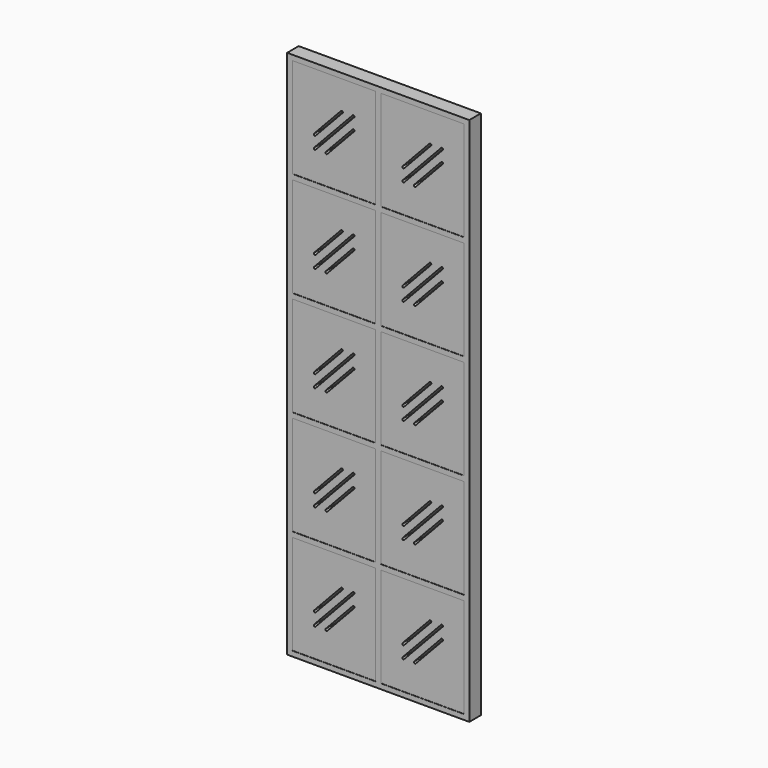
from build123d import *

# Parameters (mm, degrees)
F0_W          = 558.8
F0_H          = 1625.6
F0_W_2        = 255.5875
F0_H_2        = 306.07
F1_DEPTH      = 22.225
F1_DEPTH_BACK = 22.225
F2_W          = 255.5875
F2_H          = 306.07
F3_DEPTH      = 21.59
F3_DEPTH_BACK = 21.59


with BuildPart() as f1:
    # F0 (on Front) → F1 (new body, two sides)
    with BuildSketch(Plane.XZ) as f1_sk:
        with Locations((279.4, 812.8)):
            Rectangle(F0_W, F0_H)
        with Locations((143.66875, 168.91)):
            Rectangle(F0_W_2, F0_H_2, mode=Mode.SUBTRACT)
        with Locations((143.66875, 490.855)):
            Rectangle(F0_W_2, F0_H_2, mode=Mode.SUBTRACT)
        with Locations((143.66875, 812.8)):
            Rectangle(F0_W_2, F0_H_2, mode=Mode.SUBTRACT)
        with Locations((415.13125, 168.91)):
            Rectangle(F0_W_2, F0_H_2, mode=Mode.SUBTRACT)
        with Locations((415.13125, 490.855)):
            Rectangle(F0_W_2, F0_H_2, mode=Mode.SUBTRACT)
        with Locations((415.13125, 812.8)):
            Rectangle(F0_W_2, F0_H_2, mode=Mode.SUBTRACT)
        with Locations((143.66875, 1134.745)):
            Rectangle(F0_W_2, F0_H_2, mode=Mode.SUBTRACT)
        with Locations((143.66875, 1456.69)):
            Rectangle(F0_W_2, F0_H_2, mode=Mode.SUBTRACT)
        with Locations((415.13125, 1134.745)):
            Rectangle(F0_W_2, F0_H_2, mode=Mode.SUBTRACT)
        with Locations((415.13125, 1456.69)):
            Rectangle(F0_W_2, F0_H_2, mode=Mode.SUBTRACT)
    extrude(amount=F1_DEPTH)
    extrude(f1_sk.sketch, amount=-F1_DEPTH_BACK)

    # F2 (on Front) → F3 (join, two sides)
    with BuildSketch(Plane.XZ) as f3_sk:
        with Locations((143.66875, 1456.69)):
            Rectangle(F2_W, F2_H)
        with BuildLine():
            ThreePointArc((200.6253601771, 1521.9699346555), (205.1132846555, 1522.1105898229), (205.2539398229, 1517.6226653445))
            Line((205.2539398229, 1517.6226653445), (86.7121398229, 1391.4100653445))
            ThreePointArc((86.7121398229, 1391.4100653445), (82.2242153445, 1391.2694101771), (82.0835601771, 1395.7573346555))
            Line((82.0835601771, 1395.7573346555), (200.6253601771, 1521.9699346555))
        make_face(mode=Mode.SUBTRACT)
        with BuildLine():
            Line((82.0835601771, 1433.8573346555), (164.8409568767, 1521.9699346555))
            ThreePointArc((164.8409568767, 1521.9699346555), (169.3288813551, 1522.1105898229), (169.4695365224, 1517.6226653445))
            Line((169.4695365224, 1517.6226653445), (86.7121398229, 1429.5100653445))
            ThreePointArc((86.7121398229, 1429.5100653445), (82.2242153445, 1429.3694101771), (82.0835601771, 1433.8573346555))
        make_face(mode=Mode.SUBTRACT)
        with BuildLine():
            Line((117.8679634776, 1395.7573346555), (200.6253601771, 1483.8699346555))
            ThreePointArc((200.6253601771, 1483.8699346555), (205.1132846555, 1484.0105898229), (205.2539398229, 1479.5226653445))
            Line((205.2539398229, 1479.5226653445), (122.4965431233, 1391.4100653445))
            ThreePointArc((122.4965431233, 1391.4100653445), (118.0086186449, 1391.2694101771), (117.8679634776, 1395.7573346555))
        make_face(mode=Mode.SUBTRACT)
        with Locations((415.13125, 1456.69)):
            Rectangle(F2_W, F2_H)
        with BuildLine():
            Line((353.5460601771, 1433.8573346555), (436.3034568767, 1521.9699346555))
            ThreePointArc((436.3034568767, 1521.9699346555), (440.7913813551, 1522.1105898229), (440.9320365224, 1517.6226653445))
            Line((440.9320365224, 1517.6226653445), (358.1746398229, 1429.5100653445))
            ThreePointArc((358.1746398229, 1429.5100653445), (353.6867153445, 1429.3694101771), (353.5460601771, 1433.8573346555))
        make_face(mode=Mode.SUBTRACT)
        with BuildLine():
            ThreePointArc((472.0878601771, 1521.9699346555), (476.5757846555, 1522.1105898229), (476.7164398229, 1517.6226653445))
            Line((476.7164398229, 1517.6226653445), (358.1746398229, 1391.4100653445))
            ThreePointArc((358.1746398229, 1391.4100653445), (353.6867153445, 1391.2694101771), (353.5460601771, 1395.7573346555))
            Line((353.5460601771, 1395.7573346555), (472.0878601771, 1521.9699346555))
        make_face(mode=Mode.SUBTRACT)
        with BuildLine():
            Line((389.3304634776, 1395.7573346555), (472.0878601771, 1483.8699346555))
            ThreePointArc((472.0878601771, 1483.8699346555), (476.5757846555, 1484.0105898229), (476.7164398229, 1479.5226653445))
            Line((476.7164398229, 1479.5226653445), (393.9590431233, 1391.4100653445))
            ThreePointArc((393.9590431233, 1391.4100653445), (389.4711186449, 1391.2694101771), (389.3304634776, 1395.7573346555))
        make_face(mode=Mode.SUBTRACT)
        with Locations((415.13125, 1134.745)):
            Rectangle(F2_W, F2_H)
        with BuildLine():
            Line((353.5460601771, 1111.9123346555), (436.3034568767, 1200.0249346555))
            ThreePointArc((436.3034568767, 1200.0249346555), (440.7913813551, 1200.1655898229), (440.9320365224, 1195.6776653445))
            Line((440.9320365224, 1195.6776653445), (358.1746398229, 1107.5650653445))
            ThreePointArc((358.1746398229, 1107.5650653445), (353.6867153445, 1107.4244101771), (353.5460601771, 1111.9123346555))
        make_face(mode=Mode.SUBTRACT)
        with BuildLine():
            ThreePointArc((472.0878601771, 1200.0249346555), (476.5757846555, 1200.1655898229), (476.7164398229, 1195.6776653445))
            Line((476.7164398229, 1195.6776653445), (358.1746398229, 1069.4650653445))
            ThreePointArc((358.1746398229, 1069.4650653445), (353.6867153445, 1069.3244101771), (353.5460601771, 1073.8123346555))
            Line((353.5460601771, 1073.8123346555), (472.0878601771, 1200.0249346555))
        make_face(mode=Mode.SUBTRACT)
        with BuildLine():
            Line((389.3304634776, 1073.8123346555), (472.0878601771, 1161.9249346555))
            ThreePointArc((472.0878601771, 1161.9249346555), (476.5757846555, 1162.0655898229), (476.7164398229, 1157.5776653445))
            Line((476.7164398229, 1157.5776653445), (393.9590431233, 1069.4650653445))
            ThreePointArc((393.9590431233, 1069.4650653445), (389.4711186449, 1069.3244101771), (389.3304634776, 1073.8123346555))
        make_face(mode=Mode.SUBTRACT)
        with Locations((143.66875, 1134.745)):
            Rectangle(F2_W, F2_H)
        with BuildLine():
            Line((82.0835601771, 1111.9123346555), (164.8409568767, 1200.0249346555))
            ThreePointArc((164.8409568767, 1200.0249346555), (169.3288813551, 1200.1655898229), (169.4695365224, 1195.6776653445))
            Line((169.4695365224, 1195.6776653445), (86.7121398229, 1107.5650653445))
            ThreePointArc((86.7121398229, 1107.5650653445), (82.2242153445, 1107.4244101771), (82.0835601771, 1111.9123346555))
        make_face(mode=Mode.SUBTRACT)
        with BuildLine():
            ThreePointArc((200.6253601771, 1200.0249346555), (205.1132846555, 1200.1655898229), (205.2539398229, 1195.6776653445))
            Line((205.2539398229, 1195.6776653445), (86.7121398229, 1069.4650653445))
            ThreePointArc((86.7121398229, 1069.4650653445), (82.2242153445, 1069.3244101771), (82.0835601771, 1073.8123346555))
            Line((82.0835601771, 1073.8123346555), (200.6253601771, 1200.0249346555))
        make_face(mode=Mode.SUBTRACT)
        with BuildLine():
            Line((117.8679634776, 1073.8123346555), (200.6253601771, 1161.9249346555))
            ThreePointArc((200.6253601771, 1161.9249346555), (205.1132846555, 1162.0655898229), (205.2539398229, 1157.5776653445))
            Line((205.2539398229, 1157.5776653445), (122.4965431233, 1069.4650653445))
            ThreePointArc((122.4965431233, 1069.4650653445), (118.0086186449, 1069.3244101771), (117.8679634776, 1073.8123346555))
        make_face(mode=Mode.SUBTRACT)
        with Locations((143.66875, 812.8)):
            Rectangle(F2_W, F2_H)
        with BuildLine():
            Line((117.8679634776, 751.8673346555), (200.6253601771, 839.9799346555))
            ThreePointArc((200.6253601771, 839.9799346555), (205.1132846555, 840.1205898229), (205.2539398229, 835.6326653445))
            Line((205.2539398229, 835.6326653445), (122.4965431233, 747.5200653445))
            ThreePointArc((122.4965431233, 747.5200653445), (118.0086186449, 747.3794101771), (117.8679634776, 751.8673346555))
        make_face(mode=Mode.SUBTRACT)
        with BuildLine():
            Line((82.0835601771, 789.9673346555), (164.8409568767, 878.0799346555))
            ThreePointArc((164.8409568767, 878.0799346555), (169.3288813551, 878.2205898229), (169.4695365224, 873.7326653445))
            Line((169.4695365224, 873.7326653445), (86.7121398229, 785.6200653445))
            ThreePointArc((86.7121398229, 785.6200653445), (82.2242153445, 785.4794101771), (82.0835601771, 789.9673346555))
        make_face(mode=Mode.SUBTRACT)
        with BuildLine():
            ThreePointArc((200.6253601771, 878.0799346555), (205.1132846555, 878.2205898229), (205.2539398229, 873.7326653445))
            Line((205.2539398229, 873.7326653445), (86.7121398229, 747.5200653445))
            ThreePointArc((86.7121398229, 747.5200653445), (82.2242153445, 747.3794101771), (82.0835601771, 751.8673346555))
            Line((82.0835601771, 751.8673346555), (200.6253601771, 878.0799346555))
        make_face(mode=Mode.SUBTRACT)
        with Locations((415.13125, 812.8)):
            Rectangle(F2_W, F2_H)
        with BuildLine():
            Line((389.3304634776, 751.8673346555), (472.0878601771, 839.9799346555))
            ThreePointArc((472.0878601771, 839.9799346555), (476.5757846555, 840.1205898229), (476.7164398229, 835.6326653445))
            Line((476.7164398229, 835.6326653445), (393.9590431233, 747.5200653445))
            ThreePointArc((393.9590431233, 747.5200653445), (389.4711186449, 747.3794101771), (389.3304634776, 751.8673346555))
        make_face(mode=Mode.SUBTRACT)
        with BuildLine():
            Line((353.5460601771, 789.9673346555), (436.3034568767, 878.0799346555))
            ThreePointArc((436.3034568767, 878.0799346555), (440.7913813551, 878.2205898229), (440.9320365224, 873.7326653445))
            Line((440.9320365224, 873.7326653445), (358.1746398229, 785.6200653445))
            ThreePointArc((358.1746398229, 785.6200653445), (353.6867153445, 785.4794101771), (353.5460601771, 789.9673346555))
        make_face(mode=Mode.SUBTRACT)
        with BuildLine():
            ThreePointArc((472.0878601771, 878.0799346555), (476.5757846555, 878.2205898229), (476.7164398229, 873.7326653445))
            Line((476.7164398229, 873.7326653445), (358.1746398229, 747.5200653445))
            ThreePointArc((358.1746398229, 747.5200653445), (353.6867153445, 747.3794101771), (353.5460601771, 751.8673346555))
            Line((353.5460601771, 751.8673346555), (472.0878601771, 878.0799346555))
        make_face(mode=Mode.SUBTRACT)
        with Locations((415.13125, 490.855)):
            Rectangle(F2_W, F2_H)
        with BuildLine():
            Line((353.5460601771, 468.0223346555), (436.3034568767, 556.1349346555))
            ThreePointArc((436.3034568767, 556.1349346555), (440.7913813551, 556.2755898229), (440.9320365224, 551.7876653445))
            Line((440.9320365224, 551.7876653445), (358.1746398229, 463.6750653445))
            ThreePointArc((358.1746398229, 463.6750653445), (353.6867153445, 463.5344101771), (353.5460601771, 468.0223346555))
        make_face(mode=Mode.SUBTRACT)
        with BuildLine():
            ThreePointArc((472.0878601771, 556.1349346555), (476.5757846555, 556.2755898229), (476.7164398229, 551.7876653445))
            Line((476.7164398229, 551.7876653445), (358.1746398229, 425.5750653445))
            ThreePointArc((358.1746398229, 425.5750653445), (353.6867153445, 425.4344101771), (353.5460601771, 429.9223346555))
            Line((353.5460601771, 429.9223346555), (472.0878601771, 556.1349346555))
        make_face(mode=Mode.SUBTRACT)
        with BuildLine():
            Line((389.3304634776, 429.9223346555), (472.0878601771, 518.0349346555))
            ThreePointArc((472.0878601771, 518.0349346555), (476.5757846555, 518.1755898229), (476.7164398229, 513.6876653445))
            Line((476.7164398229, 513.6876653445), (393.9590431233, 425.5750653445))
            ThreePointArc((393.9590431233, 425.5750653445), (389.4711186449, 425.4344101771), (389.3304634776, 429.9223346555))
        make_face(mode=Mode.SUBTRACT)
        with Locations((143.66875, 490.855)):
            Rectangle(F2_W, F2_H)
        with BuildLine():
            Line((82.0835601771, 468.0223346555), (164.8409568767, 556.1349346555))
            ThreePointArc((164.8409568767, 556.1349346555), (169.3288813551, 556.2755898229), (169.4695365224, 551.7876653445))
            Line((169.4695365224, 551.7876653445), (86.7121398229, 463.6750653445))
            ThreePointArc((86.7121398229, 463.6750653445), (82.2242153445, 463.5344101771), (82.0835601771, 468.0223346555))
        make_face(mode=Mode.SUBTRACT)
        with BuildLine():
            ThreePointArc((200.6253601771, 556.1349346555), (205.1132846555, 556.2755898229), (205.2539398229, 551.7876653445))
            Line((205.2539398229, 551.7876653445), (86.7121398229, 425.5750653445))
            ThreePointArc((86.7121398229, 425.5750653445), (82.2242153445, 425.4344101771), (82.0835601771, 429.9223346555))
            Line((82.0835601771, 429.9223346555), (200.6253601771, 556.1349346555))
        make_face(mode=Mode.SUBTRACT)
        with BuildLine():
            Line((117.8679634776, 429.9223346555), (200.6253601771, 518.0349346555))
            ThreePointArc((200.6253601771, 518.0349346555), (205.1132846555, 518.1755898229), (205.2539398229, 513.6876653445))
            Line((205.2539398229, 513.6876653445), (122.4965431233, 425.5750653445))
            ThreePointArc((122.4965431233, 425.5750653445), (118.0086186449, 425.4344101771), (117.8679634776, 429.9223346555))
        make_face(mode=Mode.SUBTRACT)
        with Locations((143.66875, 168.91)):
            Rectangle(F2_W, F2_H)
        with BuildLine():
            Line((82.0835601771, 146.0773346555), (164.8409568767, 234.1899346555))
            ThreePointArc((164.8409568767, 234.1899346555), (169.3288813551, 234.3305898229), (169.4695365224, 229.8426653445))
            Line((169.4695365224, 229.8426653445), (86.7121398229, 141.7300653445))
            ThreePointArc((86.7121398229, 141.7300653445), (82.2242153445, 141.5894101771), (82.0835601771, 146.0773346555))
        make_face(mode=Mode.SUBTRACT)
        with BuildLine():
            Line((82.0835601771, 107.9773346555), (200.6253601771, 234.1899346555))
            ThreePointArc((200.6253601771, 234.1899346555), (205.1132846555, 234.3305898229), (205.2539398229, 229.8426653445))
            Line((205.2539398229, 229.8426653445), (86.7121398229, 103.6300653445))
            ThreePointArc((86.7121398229, 103.6300653445), (82.2242153445, 103.4894101771), (82.0835601771, 107.9773346555))
        make_face(mode=Mode.SUBTRACT)
        with BuildLine():
            Line((117.8679634776, 107.9773346555), (200.6253601771, 196.0899346555))
            ThreePointArc((200.6253601771, 196.0899346555), (205.1132846555, 196.2305898229), (205.2539398229, 191.7426653445))
            Line((205.2539398229, 191.7426653445), (122.4965431233, 103.6300653445))
            ThreePointArc((122.4965431233, 103.6300653445), (118.0086186449, 103.4894101771), (117.8679634776, 107.9773346555))
        make_face(mode=Mode.SUBTRACT)
        with Locations((415.13125, 168.91)):
            Rectangle(F2_W, F2_H)
        with BuildLine():
            Line((353.5460601771, 146.0773346555), (436.3034568767, 234.1899346555))
            ThreePointArc((436.3034568767, 234.1899346555), (440.7913813551, 234.3305898229), (440.9320365224, 229.8426653445))
            Line((440.9320365224, 229.8426653445), (358.1746398229, 141.7300653445))
            ThreePointArc((358.1746398229, 141.7300653445), (353.6867153445, 141.5894101771), (353.5460601771, 146.0773346555))
        make_face(mode=Mode.SUBTRACT)
        with BuildLine():
            Line((389.3304634776, 107.9773346555), (472.0878601771, 196.0899346555))
            ThreePointArc((472.0878601771, 196.0899346555), (476.5757846555, 196.2305898229), (476.7164398229, 191.7426653445))
            Line((476.7164398229, 191.7426653445), (393.9590431233, 103.6300653445))
            ThreePointArc((393.9590431233, 103.6300653445), (389.4711186449, 103.4894101771), (389.3304634776, 107.9773346555))
        make_face(mode=Mode.SUBTRACT)
        with BuildLine():
            ThreePointArc((472.0878601771, 234.1899346555), (476.5757846555, 234.3305898229), (476.7164398229, 229.8426653445))
            Line((476.7164398229, 229.8426653445), (358.1746398229, 103.6300653445))
            ThreePointArc((358.1746398229, 103.6300653445), (353.6867153445, 103.4894101771), (353.5460601771, 107.9773346555))
            Line((353.5460601771, 107.9773346555), (472.0878601771, 234.1899346555))
        make_face(mode=Mode.SUBTRACT)
    extrude(amount=F3_DEPTH)
    extrude(f3_sk.sketch, amount=-F3_DEPTH_BACK)


solid = f1.part
